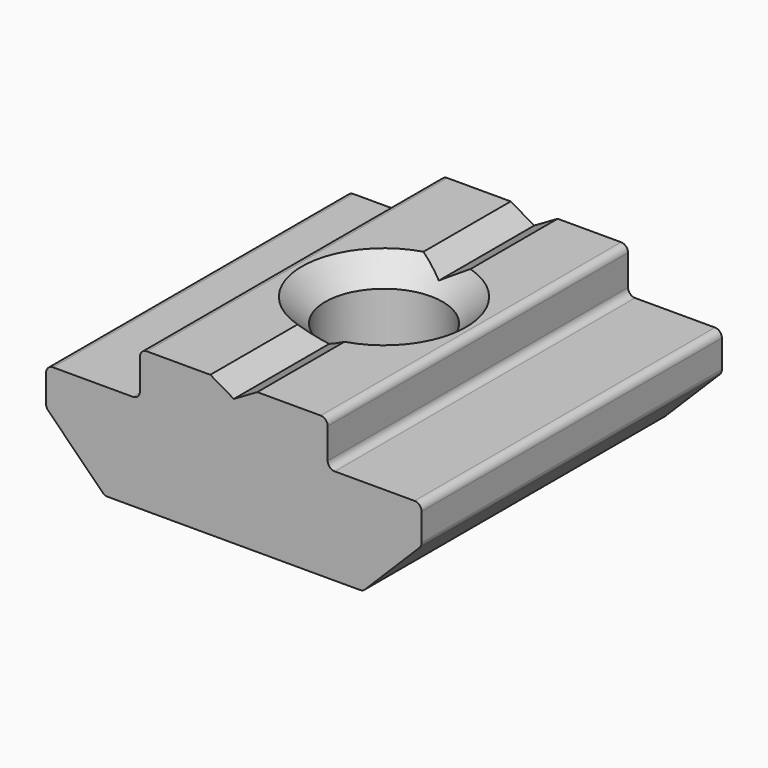
from build123d import *

# Parameters (mm, degrees)
PAD_DEPTH   = 8
SKETCH001_R = 2.5
HOLE_DEPTH  = 6.001


with BuildPart() as part:
    # Sketch → Pad (new body, symmetric)
    with BuildSketch(Plane.XZ):
        with BuildLine():
            Line((-1, 6), (-3.7, 6))
            ThreePointArc((-3.7, 6), (-3.912132, 5.912132), (-4, 5.7))
            Line((-4, 5.7), (-4, 4.4))
            ThreePointArc((-4.3, 4.1), (-4.087868, 4.187868), (-4, 4.4))
            Line((-4.3, 4.1), (-7.7, 4.1))
            ThreePointArc((-7.7, 4.1), (-7.912132, 4.012132), (-8, 3.8))
            Line((-8, 3.8), (-8, 2.624264))
            ThreePointArc((-8, 2.624264), (-7.977164, 2.509459), (-7.912132, 2.412132))
            Line((-7.912132, 2.412132), (-5.587868, 0.087868))
            ThreePointArc((-5.587868, 0.087868), (-5.490541, 0.022836), (-5.375736, 0))
            Line((-5.375736, 0), (5.375736, 0))
            ThreePointArc((5.375736, 0), (5.490541, 0.022836), (5.587868, 0.087868))
            Line((5.587868, 0.087868), (7.912132, 2.412132))
            ThreePointArc((7.912132, 2.412132), (7.977164, 2.509459), (8, 2.624264))
            Line((8, 2.624264), (8, 3.8))
            ThreePointArc((8, 3.8), (7.912132, 4.012132), (7.7, 4.1))
            Line((7.7, 4.1), (4.3, 4.1))
            ThreePointArc((4, 4.4), (4.087868, 4.187868), (4.3, 4.1))
            Line((4, 4.4), (4, 5.7))
            ThreePointArc((4, 5.7), (3.912132, 5.912132), (3.7, 6))
            Line((3.7, 6), (1, 6))
            Line((1, 6), (0, 5.42))
            Line((0, 5.42), (-1, 6))
        make_face()
    extrude(amount=PAD_DEPTH, both=True)

    # Sketch001 → Hole (cut, through all)
    with BuildSketch(Plane.XY.offset(6)):
        Circle(SKETCH001_R)
    extrude(amount=-HOLE_DEPTH, mode=Mode.SUBTRACT)

    # Sketch002 → Groove (revolve, cut)
    with BuildSketch(Plane.YZ):
        Polygon((2.5, 6), (3.5, 6), (2.5, 5), align=None)
        Polygon((2.5, 0), (2.5, 1), (3.5, 0), align=None)
    revolve(axis=Axis((0, 0, 0), (0, 0, 1)), mode=Mode.SUBTRACT)


solid = part.part
